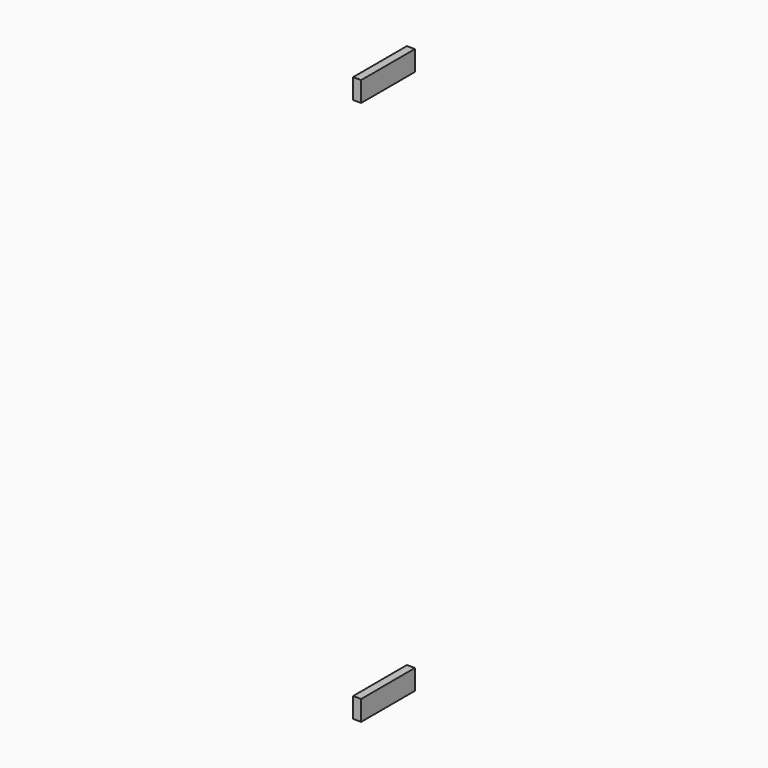
from build123d import *

# Parameters (mm, degrees)
CLONE2D109_W             = 75
CLONE2D109_H             = 30
EXTRUDE039487_DEPTH      = 250
CLONE2D108_W             = 75
CLONE2D108_H             = 30
EXTRUDE039485_DEPTH      = 250
CLONE054_PLACEMENT_ANGLE = 270


with BuildPart() as extrude039487:
    # Clone2D109 (on Clone2D) → Extrude039487 (new body)
    with BuildSketch(Plane(origin=(-325, -140, 2025), x_dir=(0, 0, 1), z_dir=(1, 0, 0))):
        with Locations((37.5, -15)):
            Rectangle(CLONE2D109_W, CLONE2D109_H)
    extrude(amount=EXTRUDE039487_DEPTH)


with BuildPart() as clone054:
    # Clone2D108 (on Clone2D) → Extrude039485 (new body)
    with BuildSketch(Plane(origin=(-325, -140, 0), x_dir=(0, 0, 1), z_dir=(1, 0, 0))):
        with Locations((37.5, -15)):
            Rectangle(CLONE2D108_W, CLONE2D108_H)
    extrude(amount=EXTRUDE039485_DEPTH)

    # Compound060: union Extrude039487
    add(extrude039487.part)


with BuildPart() as clone054_1:
    # Clone054 placement: moved
    add(clone054.part.moved(Location((-260, -540, 0))).rotate(Axis((-260, -540, 0), (0, 0, 1)), CLONE054_PLACEMENT_ANGLE))


with BuildPart() as mirror156:
    # Mirror156: instance of Clone054
    add(clone054_1.part.mirror(Plane(origin=(0, 0, 0), x_dir=(0, -1, 0), z_dir=(1, 0, 0))))


solid = mirror156.part
